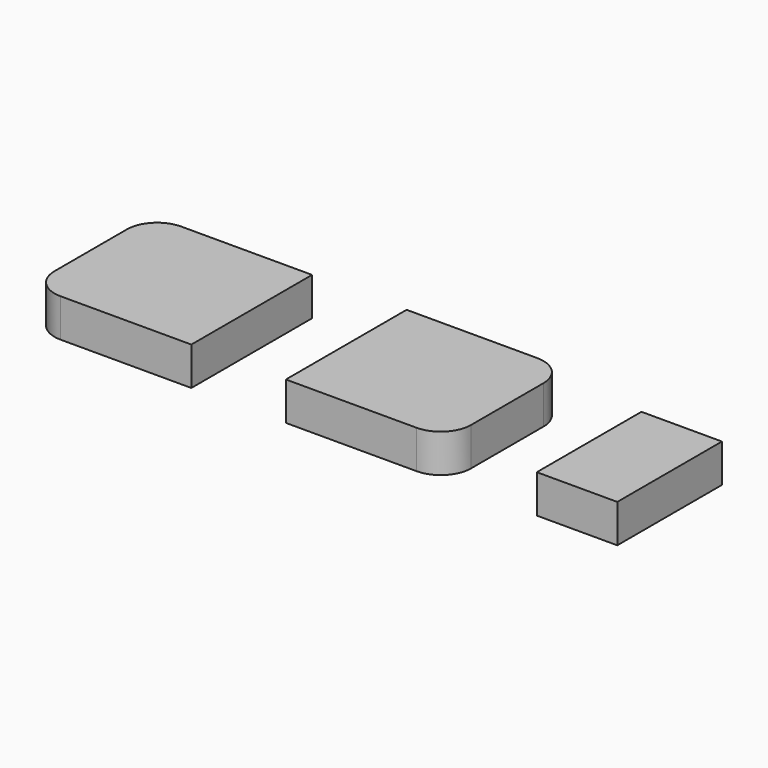
from build123d import *

# Parameters (mm, degrees)
F0_W     = 40
F0_H     = 65
F1_DEPTH = 19


with BuildPart() as f1:
    # F0 (on Top) → F1 (new body)
    with BuildSketch(Plane.XY):
        with BuildLine():
            Line((-104.765523, 14.801775), (-169.765523, 14.801775))
            ThreePointArc((-169.765523, 14.801775), (-180.372125, 10.408376), (-184.765523, -0.198225))
            Line((-184.765523, -0.198225), (-184.765523, -45.198225))
            ThreePointArc((-184.765523, -45.198225), (-180.372125, -55.804827), (-169.765523, -60.198225))
            Line((-169.765523, -60.198225), (-104.765523, -60.198225))
            Line((-104.765523, -60.198225), (-104.765523, 14.801775))
        make_face()
        with BuildLine():
            Line((7.218799, 14.801775), (-57.781201, 14.801775))
            Line((-57.781201, 14.801775), (-57.781201, -60.198225))
            Line((-57.781201, -60.198225), (7.218799, -60.198225))
            ThreePointArc((7.218799, -60.198225), (17.825401, -55.804827), (22.218799, -45.198225))
            Line((22.218799, -45.198225), (22.218799, -0.198225))
            ThreePointArc((22.218799, -0.198225), (17.825401, 10.408376), (7.218799, 14.801775))
        make_face()
        with Locations((86.923588, -27.698225)):
            Rectangle(F0_W, F0_H)
    extrude(amount=F1_DEPTH)


solid = f1.part
